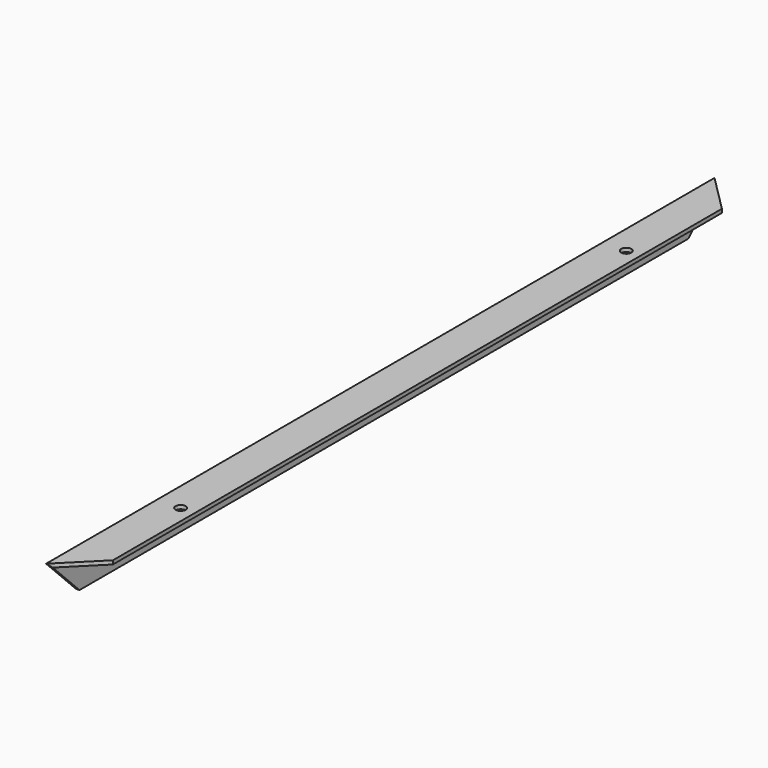
from build123d import *

# Parameters (mm, degrees)
F1_DEPTH = 450
F3_DEPTH = 40
F5_DEPTH = 40
F7_D     = 11


with BuildPart() as f1:
    # F0 (on Front) → F1 (new body, symmetric)
    with BuildSketch(Plane.XZ):
        Polygon((0, 40), (0, 0), (4, 0), (4, 36), (40, 36), (40, 40), align=None)
    extrude(amount=F1_DEPTH, both=True)

    # F2 (on face) → F3 (cut)
    with BuildSketch(Plane(origin=(0, 0, 0), x_dir=(0, -1, 0), z_dir=(-1, 0, 0))):
        Polygon((-410, 0), (-450, 40), (-450, 0), align=None)
        Polygon((450, 0), (450, 40), (410, 0), align=None)
    extrude(amount=-F3_DEPTH, mode=Mode.SUBTRACT)

    # F4 (on face) → F5 (cut)
    with BuildSketch(Plane.XY.offset(40)):
        Polygon((40, 450), (0, 450), (40, 410), align=None)
        Polygon((40, -410), (0, -450), (40, -450), align=None)
    extrude(amount=-F5_DEPTH, mode=Mode.SUBTRACT)

    # F7 (through all)
    with Locations(Plane.XY.offset(40)):
        with Locations((25, -300), (25, 300)):
            Hole(F7_D / 2)


solid = f1.part
